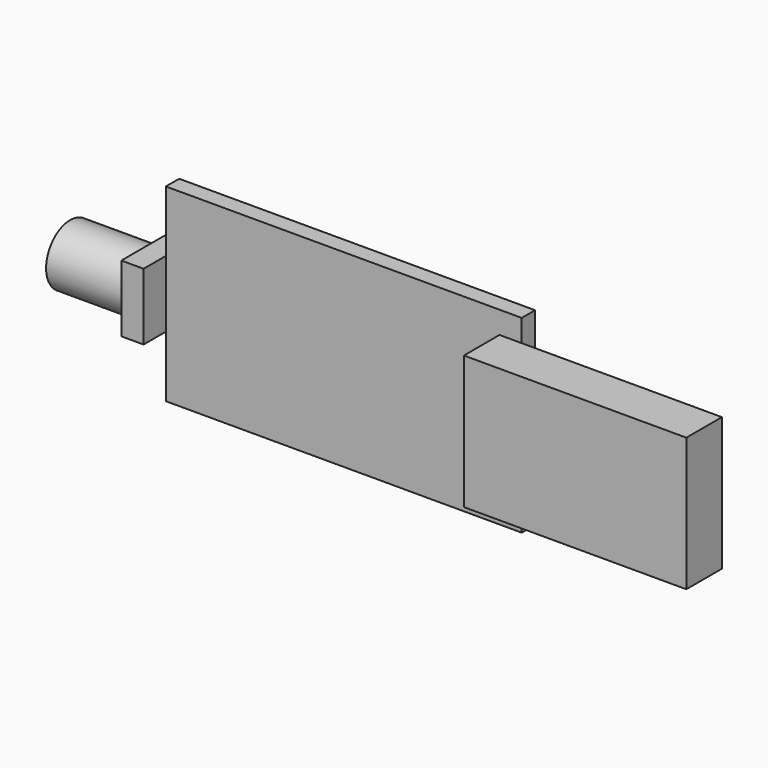
from build123d import *

# Parameters (mm, degrees)
SKETCH_W     = 32
SKETCH_H     = 17
PAD_DEPTH    = 1.5
SKETCH001_W  = 6
SKETCH001_H  = 6
PAD001_DEPTH = 2
SKETCH002_R  = 2.710161
PAD002_DEPTH = 7
SKETCH003_W  = 20
SKETCH003_H  = 12
PAD003_DEPTH = 4


with BuildPart() as part:
    # Sketch → Pad (new body)
    with BuildSketch(Plane.XZ):
        with Locations((16, 8.5)):
            Rectangle(SKETCH_W, SKETCH_H)
    extrude(amount=PAD_DEPTH)

    # Sketch001 (on Face4 of Pad) → Pad001 (join)
    with BuildSketch(Plane(origin=(0, 0, 0), x_dir=(0, 0, -1), z_dir=(-1, 0, 0))):
        with Locations((-8.5, 1)):
            Rectangle(SKETCH001_W, SKETCH001_H)
    extrude(amount=PAD001_DEPTH)

    # Sketch002 (on Face13 of Pad001) → Pad002 (join)
    with BuildSketch(Plane(origin=(-2, 0, 0), x_dir=(0, 0, -1), z_dir=(-1, 0, 0))):
        with Locations((-8.5, 1)):
            Circle(SKETCH002_R)
    extrude(amount=PAD002_DEPTH)

    # Sketch003 (on Face5 of Pad002) → Pad003 (join)
    with BuildSketch(Plane.XZ.offset(1.5)):
        with Locations((40, 9)):
            Rectangle(SKETCH003_W, SKETCH003_H)
    extrude(amount=PAD003_DEPTH)


solid = part.part
